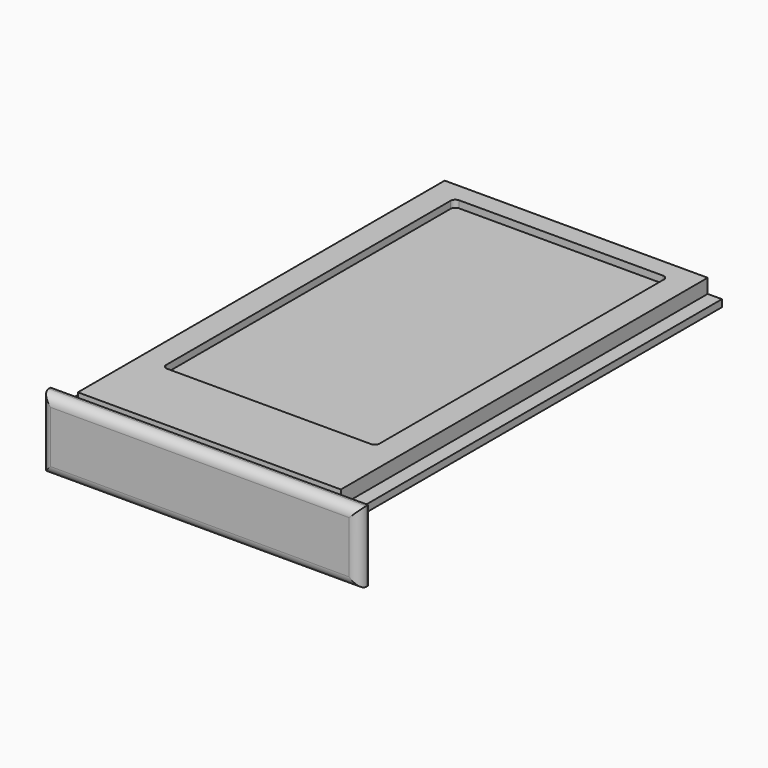
from build123d import *

# Parameters (mm, degrees)
F1_DEPTH = 96.75
F2_W     = 67
F2_H     = 15
F3_DEPTH = 2.5
F4_W     = 54
F4_H     = 1
F5_DEPTH = 88
F6_W     = 45
F6_H     = 77
F7_DEPTH = 1.5
F8_R     = 1
F9_R     = 2


with BuildPart() as f1:
    # F0 (on Front) → F1 (new body)
    with BuildSketch(Plane.XZ):
        Polygon((-27.75, 0), (-27.75, -3), (-30.75, -3), (-30.75, -4.5), (30.75, -4.5), (30.75, -3), (27.75, -3), (27.75, 0), align=None)
    extrude(amount=F1_DEPTH)

    # F2 (on face) → F3 (join)
    with BuildSketch(Plane.XZ.offset(96.75)):
        with Locations((0, -8.5)):
            Rectangle(F2_W, F2_H)
    extrude(amount=F3_DEPTH)

    # F4 (on face) → F5 (cut)
    with BuildSketch(Plane(origin=(0, 0, 0), x_dir=(-1, 0, 0), z_dir=(0, 1, 0))):
        with Locations((0, -2)):
            Rectangle(F4_W, F4_H)
    extrude(amount=-F5_DEPTH, mode=Mode.SUBTRACT)

    # F6 (on face) → F7 (cut, through all)
    with BuildSketch(Plane.XY):
        with Locations((0, -42.5)):
            Rectangle(F6_W, F6_H)
    extrude(amount=-F7_DEPTH, mode=Mode.SUBTRACT)

    # F8
    f8_edges = [f1.edges().sort_by_distance(p)[0] for p in [
        (-22.5, -81, -0.75),
        (-22.5, -4, -0.75),
        (22.5, -4, -0.75),
        (22.5, -81, -0.75),
    ]]
    fillet(f8_edges, radius=F8_R)

    # F9
    f9_edges = [f1.edges().sort_by_distance(p)[0] for p in [
        (0, -99.25, -16),
        (0, -99.25, -1),
        (33.5, -99.25, -8.5),
        (-33.5, -99.25, -8.5),
    ]]
    fillet(f9_edges, radius=F9_R)


solid = f1.part
